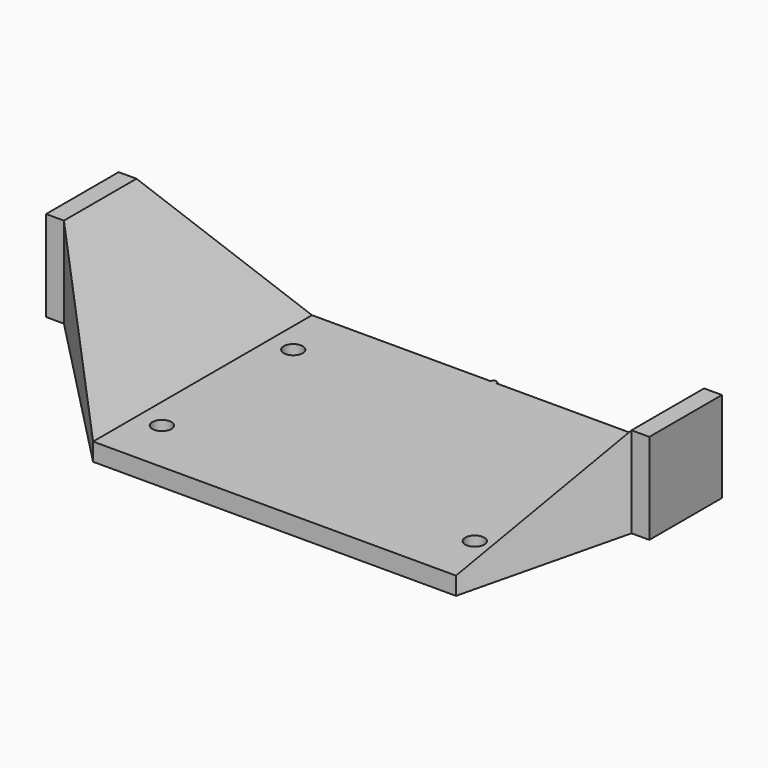
from build123d import *

# Parameters (mm, degrees)
F0_R       = 1.6
F1_DEPTH   = 3
F3_W       = 15.25
F3_H       = 15.25
F4_DEPTH   = 3
F4_FACE_W  = 15.25
F4_FACE_H  = 15.25
F1_FACE_W  = 46
F1_FACE_H  = 3
F7_W       = 15.25
F7_H       = 15.25
F8_DEPTH   = 3
F8_FACE_W  = 15.25
F8_FACE_H  = 15.25
F1_FACE1_W = 46
F1_FACE1_H = 3


with BuildPart() as f1:
    # F0 (on Top) → F1 (new body)
    with BuildSketch(Plane.XY):
        with BuildLine():
            ThreePointArc((-0.5, 23), (0, 22.5), (0.5, 23))
            Line((0.5, 23), (-0.5, 23))
        make_face()
        with BuildLine():
            Line((-0.5, 23), (0.5, 23))
            ThreePointArc((0.5, 23), (0, 23.5), (-0.5, 23))
        make_face()
        with BuildLine():
            Line((30.5, 23), (0.5, 23))
            ThreePointArc((0.5, 23), (0, 22.5), (-0.5, 23))
            Line((-0.5, 23), (-30.5, 23))
            Line((-30.5, 23), (-30.5, -23))
            Line((-30.5, -23), (30.5, -23))
            Line((30.5, -23), (30.5, 23))
        make_face()
        with Locations((-26.3, -13.8)):
            Circle(F0_R, mode=Mode.SUBTRACT)
        with Locations((26.3, -13.8)):
            Circle(F0_R, mode=Mode.SUBTRACT)
        with Locations((-26.3, 13.8)):
            Circle(F0_R, mode=Mode.SUBTRACT)
        with Locations((26.3, 13.8)):
            Circle(F0_R, mode=Mode.SUBTRACT)
    extrude(amount=F1_DEPTH)



with BuildPart() as f4:
    # F3 (on offset) → F4 (new body)
    with BuildSketch(Plane.YZ.offset(47.7)):
        with Locations((0, 16.225)):
            Rectangle(F3_W, F3_H)
    extrude(amount=F4_DEPTH)


with BuildPart() as f1_1:
    add(f1.part)

    add(f4.part)  # F5 merges F4
    # F4_face (on face) → F5 section 0
    with BuildSketch(Plane(origin=(47.7, 0, 16.225), x_dir=(0, 1, 0), z_dir=(-1, 0, 0))):
        Rectangle(F4_FACE_W, F4_FACE_H)
    # F1_face (on face) → F5 section 1
    with BuildSketch(Plane(origin=(30.5, 0, 1.5), x_dir=(0, 1, 0), z_dir=(1, 0, 0))):
        Rectangle(F1_FACE_W, F1_FACE_H)
    loft()



with BuildPart() as f8:
    # F7 (on offset) → F8 (new body)
    with BuildSketch(Plane(origin=(-47.7, 0, 0), x_dir=(0, -1, 0), z_dir=(-1, 0, 0))):
        with Locations((0, 16.225)):
            Rectangle(F7_W, F7_H)
    extrude(amount=F8_DEPTH)


with BuildPart() as f1_2:
    add(f1_1.part)

    add(f8.part)  # F9 merges F8
    # F8_face (on face) → F9 section 0
    with BuildSketch(Plane(origin=(-47.7, 0, 16.225), x_dir=(0, -1, 0), z_dir=(1, 0, 0))):
        Rectangle(F8_FACE_W, F8_FACE_H)
    # F1_face1 (on face) → F9 section 1
    with BuildSketch(Plane(origin=(-30.5, 0, 1.5), x_dir=(0, -1, 0), z_dir=(-1, 0, 0))):
        Rectangle(F1_FACE1_W, F1_FACE1_H)
    loft()


solid = f1_2.part
